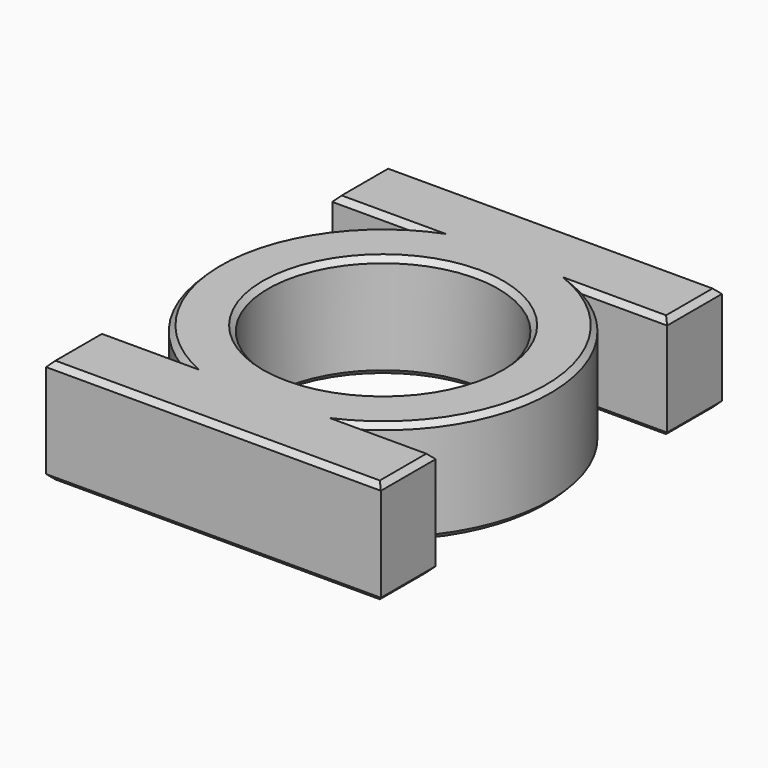
from build123d import *

# Parameters (mm, degrees)
F0_R     = 11
F1_DEPTH = 5
F2_SIZE2 = 0.5
F2_SIZE  = 0.5
F3_SIZE2 = 0.5
F3_SIZE  = 0.5


with BuildPart() as f1:
    # F0 (on Top) → F1 (new body, symmetric)
    with BuildSketch(Plane.XY):
        with BuildLine():
            Line((-16.026402, 13.960794), (-7.816408, 13.960794))
            ThreePointArc((-7.816408, 13.960794), (-15.997645, 0.274512), (-8.290786, -13.684402))
            Line((-8.290786, -13.684402), (-16.026402, -13.684402))
            Line((-16.026402, -13.684402), (-16.026402, -20.231948))
            Line((-16.026402, -20.231948), (15.973598, -20.231948))
            Line((15.973598, -20.231948), (15.973598, -13.684402))
            Line((15.973598, -13.684402), (8.290786, -13.684402))
            ThreePointArc((8.290786, -13.684402), (15.997645, 0.274512), (7.816408, 13.960794))
            Line((7.816408, 13.960794), (15.973598, 13.960794))
            Line((15.973598, 13.960794), (15.973598, 20.50834))
            Line((15.973598, 20.50834), (-16.026402, 20.50834))
            Line((-16.026402, 20.50834), (-16.026402, 13.960794))
        make_face()
        Circle(F0_R, mode=Mode.SUBTRACT)
    extrude(amount=F1_DEPTH, both=True)

    # F2
    f2_edges = [f1.edges().sort_by_distance(p)[0] for p in [
        (15.973598, 17.234567, 5),
        (-0.026402, 20.50834, 5),
        (-16.026402, 17.234567, 5),
        (-11.921405, 13.960794, 5),
        (-15.997645, 0.274512, 5),
        (-12.158594, -13.684402, 5),
        (-16.026402, -16.958175, 5),
        (-0.026402, -20.231948, 5),
        (15.973598, -16.958175, 5),
        (12.132192, -13.684402, 5),
        (15.997645, 0.274512, 5),
        (11.895003, 13.960794, 5),
        (-11, 0, 5),
    ]]
    chamfer(f2_edges, length=F2_SIZE, length2=F2_SIZE2)

    # F3
    f3_edges = [f1.edges().sort_by_distance(p)[0] for p in [
        (15.973598, 17.234567, -5),
        (-0.026402, 20.50834, -5),
        (-16.026402, 17.234567, -5),
        (-11.921405, 13.960794, -5),
        (-15.997645, 0.274512, -5),
        (-12.158594, -13.684402, -5),
        (-16.026402, -16.958175, -5),
        (-0.026402, -20.231948, -5),
        (15.973598, -16.958175, -5),
        (12.132192, -13.684402, -5),
        (15.997645, 0.274512, -5),
        (11.895003, 13.960794, -5),
        (-11, 0, -5),
    ]]
    chamfer(f3_edges, length=F3_SIZE, length2=F3_SIZE2)


solid = f1.part
